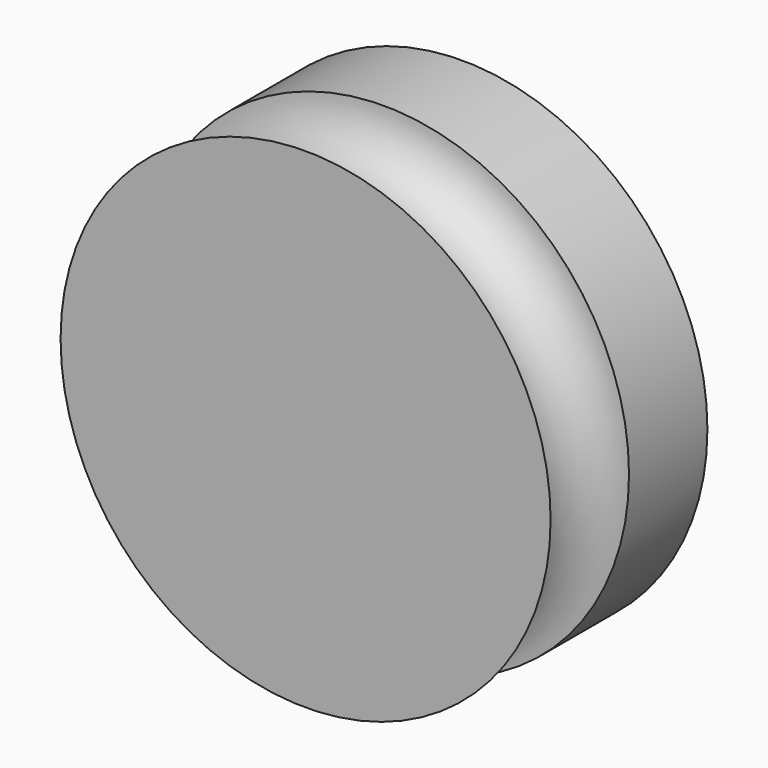
from build123d import *

# Parameters (mm, degrees)
F0_R     = 31.75
F1_DEPTH = 25.4
F4_R     = 6.35


with BuildPart() as f1:
    # F0 (on Front) → F1 (new body)
    with BuildSketch(Plane.XZ):
        Circle(F0_R)
    extrude(amount=F1_DEPTH)

    # F5: sweep along a path in F3
    with BuildLine(Plane(origin=(0, -19.05, 0), x_dir=(1, 0, 0), z_dir=(0, 1, 0))) as f5_path:
        CenterArc((0, 0), 31.75, 0, 360)
    # F4 (on Right) → F5 (sweep, cut)
    with BuildSketch(Plane.YZ):
        with Locations((-19.05, 31.75)):
            Circle(F4_R)
    sweep(path=f5_path.line, mode=Mode.SUBTRACT)


solid = f1.part
